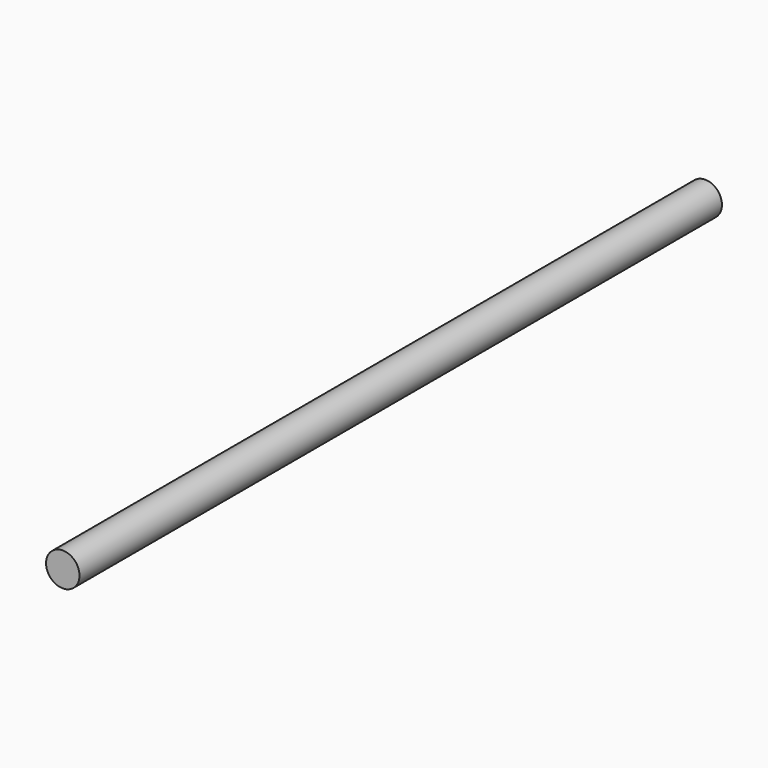
from build123d import *

# Parameters (mm, degrees)
SKETCH_R  = 11.1125
PAD_DEPTH = 533.4


with BuildPart() as part:
    # Sketch → Pad (new body)
    with BuildSketch(Plane.XZ):
        Circle(SKETCH_R)
    extrude(amount=PAD_DEPTH)


solid = part.part
